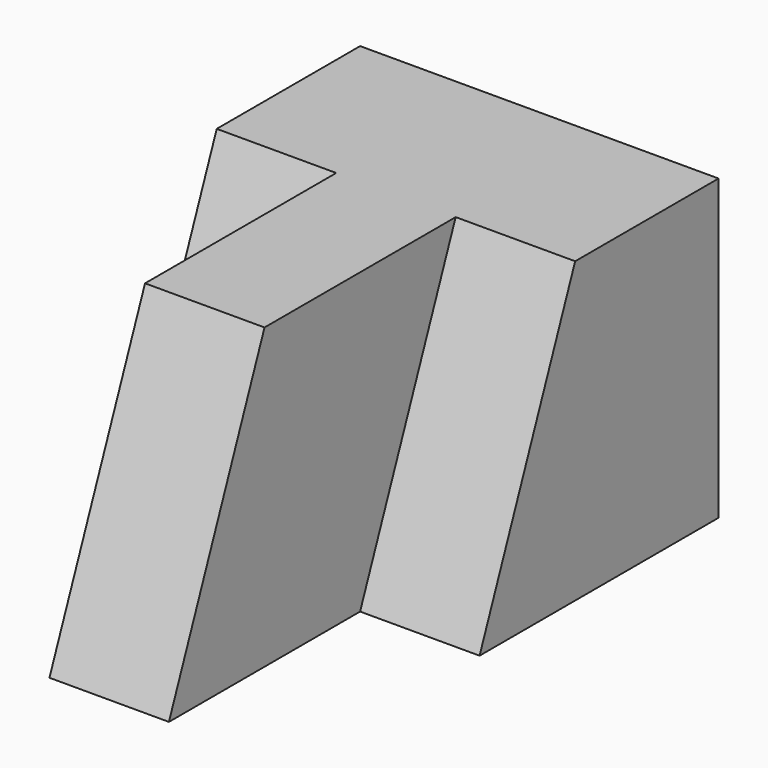
from build123d import *

# Parameters (mm, degrees)
F1_DEPTH = 31.75
F3_DEPTH = 12.7
F5_DEPTH = 12.7
F7_DEPTH = 12.7


with BuildPart() as f1:
    # F0 (on Top) → F1 (new body)
    with BuildSketch(Plane.XY):
        Polygon((38.1, 0), (0, 0), (0, -19.05), (12.7, -19.05), (12.7, -44.45), (25.4, -44.45), (25.4, -19.05), (38.1, -19.05), align=None)
    extrude(amount=F1_DEPTH)

    # F2 (on face) → F3 (join)
    with BuildSketch(Plane.YZ.offset(25.4)):
        Polygon((-31.75, 0), (-19.05, 0), (-19.05, 31.75), align=None)
    extrude(amount=F3_DEPTH)

    # F4 (on face) → F5 (join)
    with BuildSketch(Plane(origin=(12.7, 0, 0), x_dir=(0, -1, 0), z_dir=(-1, 0, 0))):
        Polygon((19.05, 31.75), (19.05, 0), (31.75, 0), align=None)
    extrude(amount=F5_DEPTH)

    # F6 (on face) → F7 (join)
    with BuildSketch(Plane.YZ.offset(25.4)):
        Polygon((-57.15, 0), (-44.45, 0), (-44.45, 31.75), align=None)
    extrude(amount=-F7_DEPTH)


solid = f1.part
